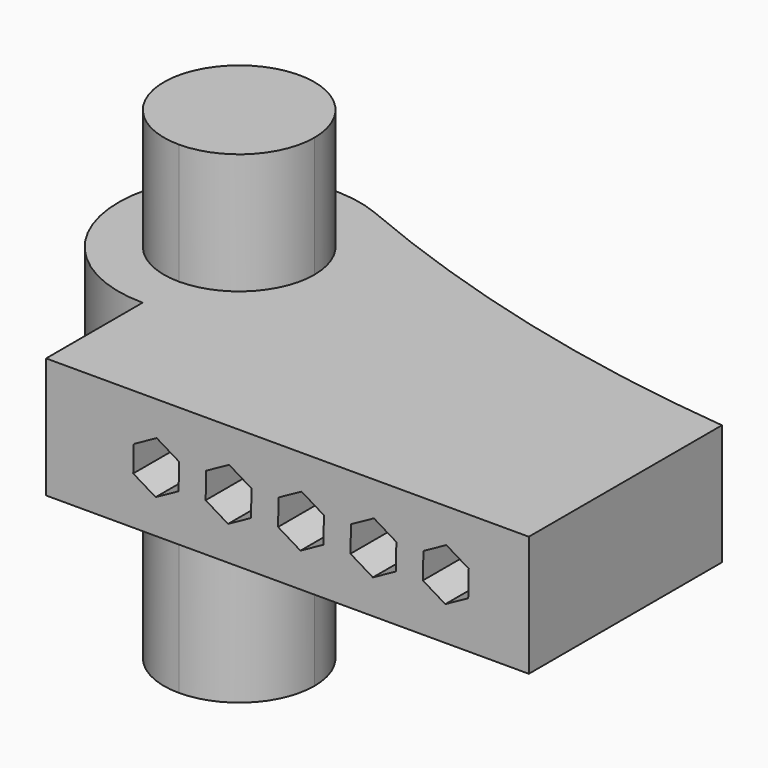
from build123d import *

# Parameters (mm, degrees)
F1_DEPTH = 25
F2_DEPTH = 50
F4_DEPTH = 100


with BuildPart() as f1:
    # F0 (on Top) → F1 (new body)
    with BuildSketch(Plane.XY):
        with BuildLine():
            ThreePointArc((-50, 9.4125951482), (-61.0219596718, 36.0219596718), (-34.4125951482, 25))
            Line((-34.4125951482, 25), (-25, 25))
            ThreePointArc((-25, 25), (-29.1653033812, 38.8172145096), (-40.2732333443, 48.0301977939))
            ThreePointArc((-40.2732333443, 48.0301977939), (-74.5026013399, 29.9621091863), (-50, 0))
            Line((-50, 0), (-50, 9.4125951482))
        make_face()
        with BuildLine():
            Line((-25, 25), (-34.4125951482, 25))
            ThreePointArc((-34.4125951482, 25), (-38.9780403282, 13.9780403282), (-50, 9.4125951482))
            Line((-50, 9.4125951482), (-50, 0))
            ThreePointArc((-50, 0), (-32.3223304703, 7.3223304703), (-25, 25))
        make_face()
        with BuildLine():
            ThreePointArc((-40.2732333443, 48.0301977939), (-29.1653033812, 38.8172145096), (-25, 25))
            Line((-25, 25), (50, 25))
            ThreePointArc((50, 25), (3.9990883715, 33.1272556411), (-40.2732333443, 48.0301977939))
        make_face()
        with BuildLine():
            Line((50, 25), (-25, 25))
            ThreePointArc((-25, 25), (-32.3223304703, 7.3223304703), (-50, 0))
            Line((-50, 0), (-50, -25))
            Line((-50, -25), (50, -25))
            Line((50, -25), (50, 25))
        make_face()
    extrude(amount=F1_DEPTH)

    # F3 (on face) → F4 (cut)
    with BuildSketch(Plane.XZ.offset(25)):
        Polygon((-27.3039182642, 7.0765079837), (-22.5522005936, 9.6932755877), (-22.4425289792, 15.1167676039), (-27.0845750353, 17.9234920163), (-31.8362927058, 15.3067244123), (-31.9459643203, 9.8832323961), align=None)
        Polygon((-7.5522005936, 9.6932755877), (-7.4425289792, 15.1167676039), (-12.0845750353, 17.9234920163), (-16.8362927058, 15.3067244123), (-16.9459643203, 9.8832323961), (-12.3039182642, 7.0765079837), align=None)
        Polygon((7.4477994064, 9.6932755877), (7.5574710208, 15.1167676039), (2.9154249647, 17.9234920163), (-1.8362927058, 15.3067244123), (-1.9459643203, 9.8832323961), (2.6960817358, 7.0765079837), align=None)
        Polygon((22.4477994064, 9.6932755877), (22.5574710208, 15.1167676039), (17.9154249647, 17.9234920163), (13.1637072942, 15.3067244123), (13.0540356797, 9.8832323961), (17.6960817358, 7.0765079837), align=None)
        Polygon((37.4477994064, 9.6932755877), (37.5574710208, 15.1167676039), (32.9154249647, 17.9234920163), (28.1637072942, 15.3067244123), (28.0540356797, 9.8832323961), (32.6960817358, 7.0765079837), align=None)
    extrude(amount=-F4_DEPTH, mode=Mode.SUBTRACT)


with BuildPart() as f2:
    # F0 (on Top) → F2 (new body, symmetric)
    with BuildSketch(Plane.XY):
        with BuildLine():
            Line((-50, 9.4125951482), (-50, 25))
            Line((-50, 25), (-34.4125951482, 25))
            ThreePointArc((-34.4125951482, 25), (-61.0219596718, 36.0219596718), (-50, 9.4125951482))
        make_face()
        with BuildLine():
            Line((-34.4125951482, 25), (-50, 25))
            Line((-50, 25), (-50, 9.4125951482))
            ThreePointArc((-50, 9.4125951482), (-38.9780403282, 13.9780403282), (-34.4125951482, 25))
        make_face()
    extrude(amount=F2_DEPTH, both=True)


solid = Compound([f1.part, f2.part])
